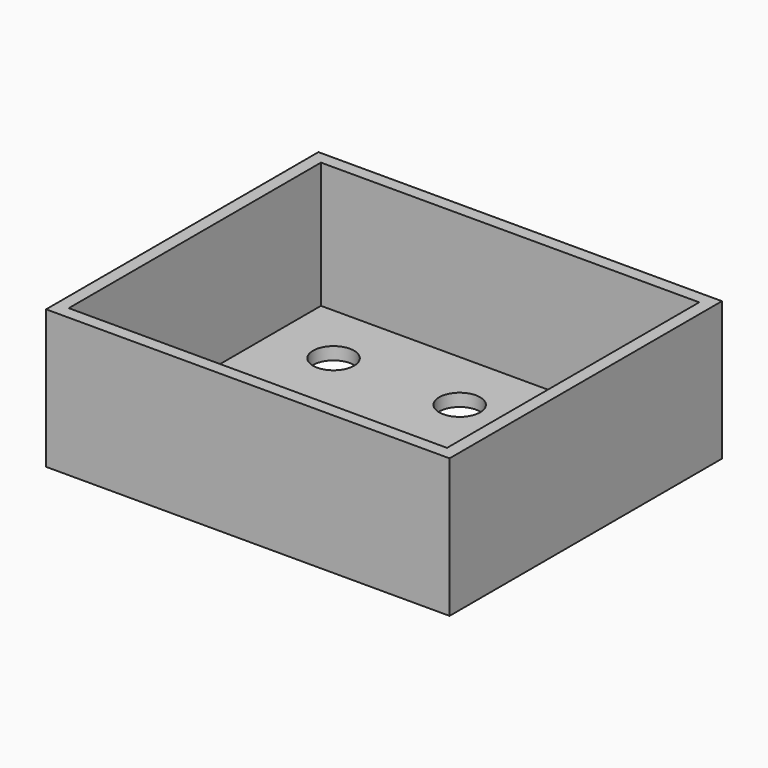
from build123d import *

# Parameters (mm, degrees)
F0_W     = 64
F0_H     = 54
F0_W_2   = 60
F0_H_2   = 50
F0_R     = 3.25
F1_DEPTH = 2
F2_W     = 64
F2_H     = 54
F2_W_2   = 60
F2_H_2   = 50
F3_DEPTH = 20


with BuildPart() as f1:
    # F0 (on Top) → F1 (new body)
    with BuildSketch(Plane.XY):
        Rectangle(F0_W, F0_H)
        Rectangle(F0_W_2, F0_H_2, mode=Mode.SUBTRACT)
        Rectangle(F0_W_2, F0_H_2)
        with Locations((-20, -15)):
            Circle(F0_R, mode=Mode.SUBTRACT)
        with Locations((0, -15)):
            Circle(F0_R, mode=Mode.SUBTRACT)
        with Locations((20, -15)):
            Circle(F0_R, mode=Mode.SUBTRACT)
        with Locations((-20, 15)):
            Circle(F0_R, mode=Mode.SUBTRACT)
        with Locations((0, 15)):
            Circle(F0_R, mode=Mode.SUBTRACT)
        with Locations((20, 15)):
            Circle(F0_R, mode=Mode.SUBTRACT)
    extrude(amount=F1_DEPTH)

    # F2 (on face) → F3 (join)
    with BuildSketch(Plane.XY.offset(2)):
        Rectangle(F2_W, F2_H)
        Rectangle(F2_W_2, F2_H_2, mode=Mode.SUBTRACT)
    extrude(amount=F3_DEPTH)


solid = f1.part
